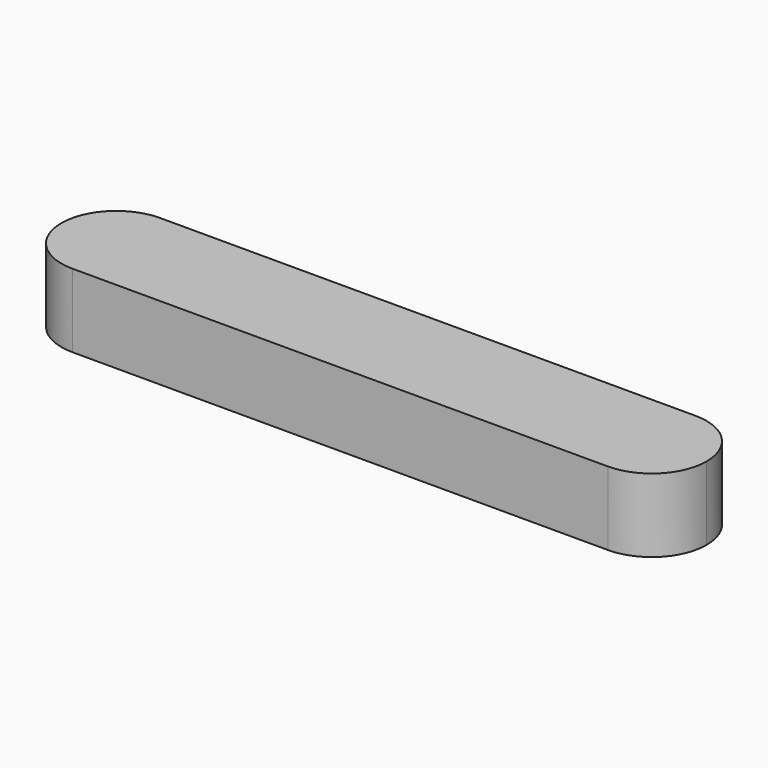
from build123d import *

# Parameters (mm, degrees)
F1_DEPTH = 11.4


with BuildPart() as f1:
    # F0 (on Top) → F1 (new body)
    with BuildSketch(Plane.XY):
        with BuildLine():
            ThreePointArc((0, 8.5), (6.010408, 6.010408), (8.5, 0))
            ThreePointArc((8.5, 0), (6.010408, -6.010408), (0, -8.5))
            Line((0, -8.5), (83, -8.5))
            ThreePointArc((83, -8.5), (74.5, 0), (83, 8.5))
            Line((83, 8.5), (0, 8.5))
        make_face()
        with BuildLine():
            ThreePointArc((0, -8.5), (6.010408, -6.010408), (8.5, 0))
            ThreePointArc((8.5, 0), (6.010408, 6.010408), (0, 8.5))
            ThreePointArc((0, 8.5), (-8.5, 0), (0, -8.5))
        make_face()
        with BuildLine():
            ThreePointArc((91.5, 0), (89.010408, 6.010408), (83, 8.5))
            ThreePointArc((83, 8.5), (74.5, 0), (83, -8.5))
            ThreePointArc((83, -8.5), (89.010408, -6.010408), (91.5, 0))
        make_face()
    extrude(amount=F1_DEPTH)


solid = f1.part
